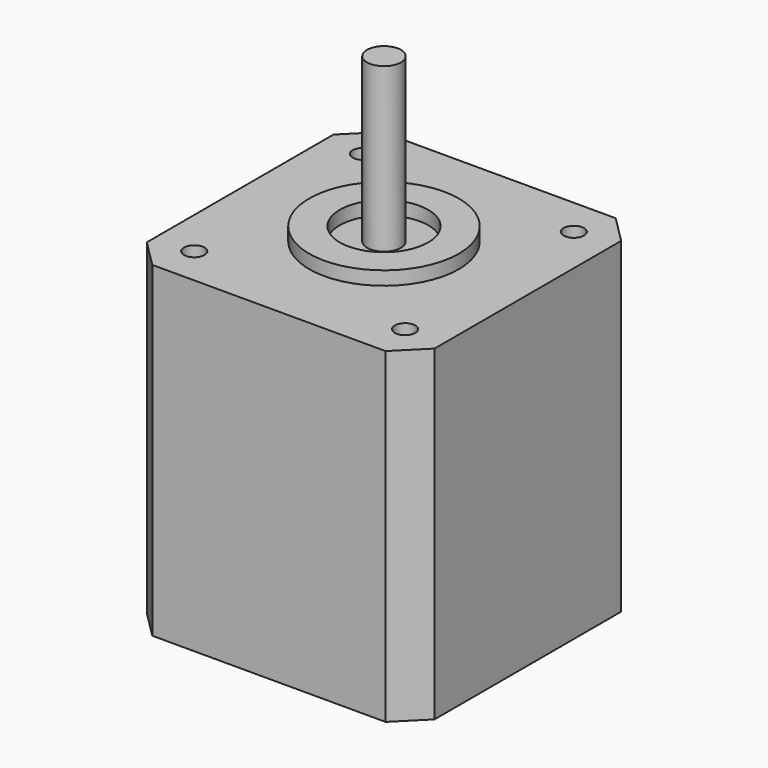
from build123d import *

# Parameters (mm, degrees)
SKETCH004_R   = 1.5
PAD004_DEPTH  = 48
SKETCH005_R   = 11
SKETCH005_R_2 = 6.5
PAD005_DEPTH  = 2
SKETCH006_R   = 2.5
PAD006_DEPTH  = 24


with BuildPart() as part:
    # Sketch004 → Pad004 (new body)
    with BuildSketch(Plane.XY):
        Polygon((-21.15, 17.15), (-21.15, -17.15), (-17.15, -21.15), (17.15, -21.15), (21.15, -17.15), (21.15, 17.15), (17.15, 21.15), (-17.15, 21.15), align=None)
        with Locations((-15.5, 15.5)):
            Circle(SKETCH004_R, mode=Mode.SUBTRACT)
        with Locations((15.5, 15.5)):
            Circle(SKETCH004_R, mode=Mode.SUBTRACT)
        with Locations((15.5, -15.5)):
            Circle(SKETCH004_R, mode=Mode.SUBTRACT)
        with Locations((-15.5, -15.5)):
            Circle(SKETCH004_R, mode=Mode.SUBTRACT)
    extrude(amount=-PAD004_DEPTH)

    # Sketch005 (on Face13 of Pad004) → Pad005 (join)
    with BuildSketch(Plane.XY):
        Circle(SKETCH005_R)
        Circle(SKETCH005_R_2, mode=Mode.SUBTRACT)
    extrude(amount=PAD005_DEPTH)

    # Sketch006 (on Face18 of Pad005) → Pad006 (join)
    with BuildSketch(Plane.XY):
        Circle(SKETCH006_R)
    extrude(amount=PAD006_DEPTH)


solid = part.part
